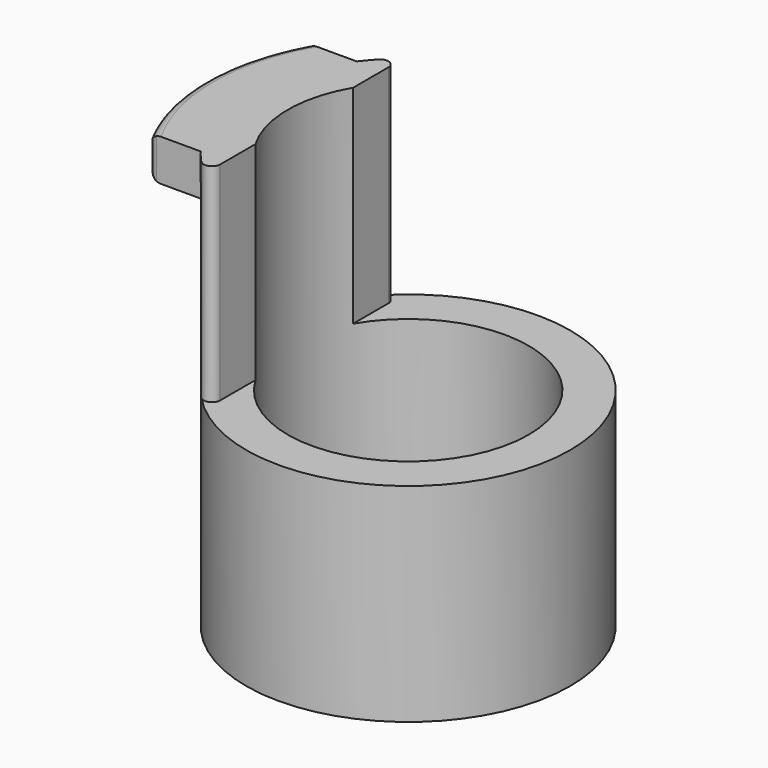
from build123d import *

# Parameters (mm, degrees)
SKETCH_R     = 3.9
SKETCH_R_2   = 2.9
PAD_DEPTH    = 10
SKETCH001_W  = 6.4
SKETCH001_H  = 7.8
POCKET_DEPTH = 5.001
PAD001_DEPTH = 1
FILLET_R     = 0.2
FILLET001_R  = 0.2


with BuildPart() as part:
    # Sketch → Pad (new body)
    with BuildSketch(Plane.XY):
        Circle(SKETCH_R)
        Circle(SKETCH_R_2, mode=Mode.SUBTRACT)
    extrude(amount=PAD_DEPTH)

    # Sketch001 → Pocket (cut, through all)
    with BuildSketch(Plane.XY.offset(5)):
        with Locations((0.7, 0)):
            Rectangle(SKETCH001_W, SKETCH001_H)
    extrude(amount=POCKET_DEPTH, mode=Mode.SUBTRACT)

    # Sketch002 → Pad001 (join)
    with BuildSketch(Plane.XY.offset(9)):
        with BuildLine():
            ThreePointArc((-4.301793, 2.346184), (-4.9, 0), (-4.301793, -2.346184))
            Line((-4.301793, -2.346184), (-3.115352, -2.346184))
            ThreePointArc((-3.115352, 2.346184), (-3.9, 0), (-3.115352, -2.346184))
            Line((-4.301793, 2.346184), (-3.115352, 2.346184))
        make_face()
    extrude(amount=PAD001_DEPTH)

    # Fillet
    fillet_edges = [part.edges().sort_by_distance(p)[0] for p in [
        (-2.5, -2.993326, 7.5),
        (-2.5, 2.993326, 7.5),
    ]]
    fillet(fillet_edges, radius=FILLET_R)

    # Fillet001
    fillet001_edges = [part.edges().sort_by_distance(p)[0] for p in [
        (-4.301793, 2.346184, 9.5),
        (-4.301793, -2.346184, 9.5),
        (-4.9, 0, 9),
        (-4.9, 0, 10),
    ]]
    fillet(fillet001_edges, radius=FILLET001_R)


solid = part.part
